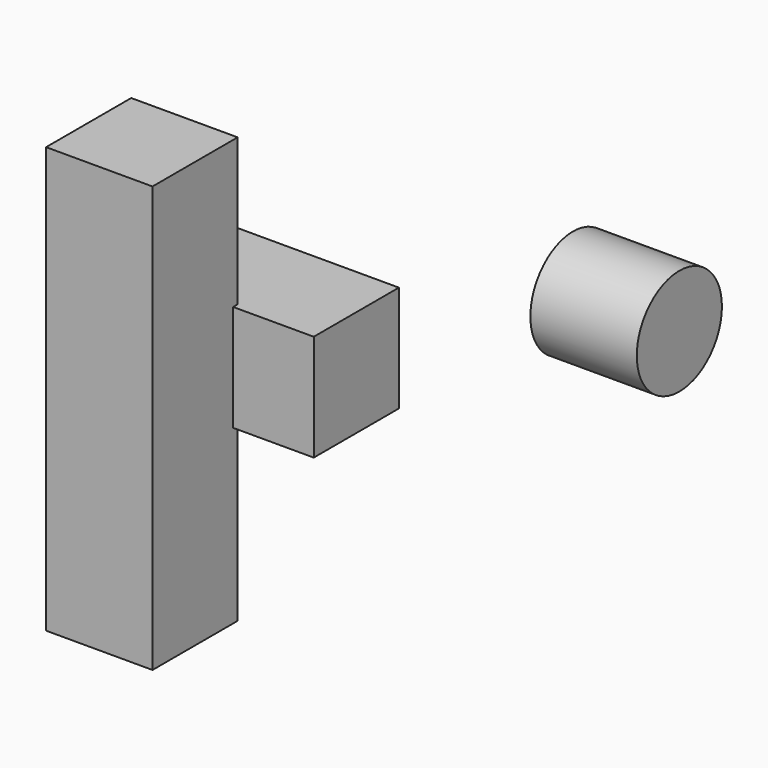
from build123d import *

# Parameters (mm, degrees)
F0_W     = 50.8
F0_H     = 25.4
F1_DEPTH = 25.4
F2_W     = 25.4
F2_H     = 25.4
F3_DEPTH = 101.6
F4_R     = 12.7
F5_DEPTH = 25.4


with BuildPart() as f1:
    # F0 (on Front) → F1 (new body)
    with BuildSketch(Plane.XZ):
        with Locations((-42.06913, 53.811623)):
            Rectangle(F0_W, F0_H)
    extrude(amount=F1_DEPTH)


with BuildPart() as f3:
    # F2 (on Top) → F3 (new body)
    with BuildSketch(Plane.XY):
        with Locations((-48.625704, -36.74018)):
            Rectangle(F2_W, F2_H)
    extrude(amount=F3_DEPTH)


with BuildPart() as f5:
    # F4 (on Right) → F5 (new body)
    with BuildSketch(Plane.YZ):
        with Locations((31.087756, 58.399018)):
            Circle(F4_R)
    extrude(amount=F5_DEPTH)


solid = Compound([f1.part, f3.part, f5.part])
